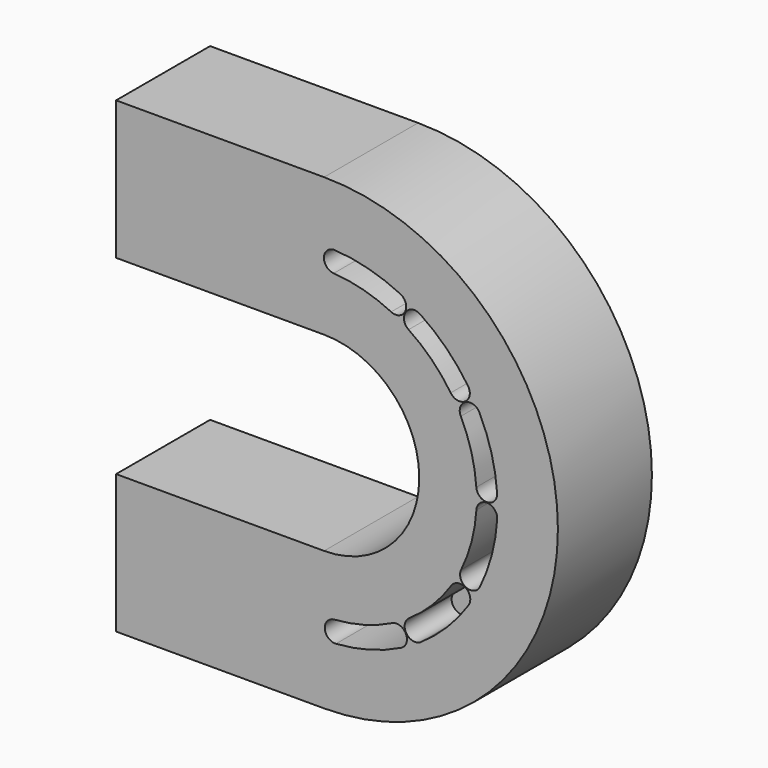
from build123d import *

# Parameters (mm, degrees)
F0_W     = 35.4
F0_H     = 23.6
F1_DEPTH = 20
F3_DEPTH = 10


with BuildPart() as f1:
    # F0 (on Front) → F1 (new body)
    with BuildSketch(Plane.XZ):
        with Locations((-17.7, 28)):
            Rectangle(F0_W, F0_H)
        with BuildLine():
            ThreePointArc((0, -39.8), (39.8, 0), (0, 39.8))
            Line((0, 39.8), (0, 16.2))
            ThreePointArc((0, 16.2), (16.2, 0), (0, -16.2))
            Line((0, -16.2), (0, -39.8))
        make_face()
        with Locations((-17.7, -28)):
            Rectangle(F0_W, F0_H)
    extrude(amount=F1_DEPTH)

    # F2 (on face) → F3 (cut)
    with BuildSketch(Plane.XZ.offset(20)):
        with BuildLine():
            ThreePointArc((12.98208, 26.520214), (7.568156, 28.540833), (1.864359, 29.468293))
            ThreePointArc((1.864359, 29.468293), (-0.019794, 27.808362), (1.640137, 25.924209))
            ThreePointArc((1.640137, 25.924209), (6.657951, 25.108293), (11.420755, 23.330688))
            ThreePointArc((11.420755, 23.330688), (13.79618, 24.144789), (12.98208, 26.520214))
        make_face()
        with BuildLine():
            ThreePointArc((14.382505, 21.630955), (18.320101, 18.415444), (21.556008, 14.494592))
            ThreePointArc((21.556008, 14.494592), (24.020237, 14.01191), (24.502918, 16.476139))
            ThreePointArc((24.502918, 16.476139), (20.824632, 20.933009), (16.348729, 24.588111))
            ThreePointArc((16.348729, 24.588111), (13.887039, 24.092645), (14.382505, 21.630955))
        make_face()
        with BuildLine():
            ThreePointArc((23.271092, 11.541705), (25.073395, 6.788192), (25.915346, 1.77468))
            ThreePointArc((25.915346, 1.77468), (27.80809, 0.124552), (29.458219, 2.017296))
            ThreePointArc((29.458219, 2.017296), (28.501164, 7.716202), (26.45247, 13.119565))
            ThreePointArc((26.45247, 13.119565), (24.072851, 13.921324), (23.271092, 11.541705))
        make_face()
        with BuildLine():
            ThreePointArc((25.924209, -1.640137), (25.108293, -6.657951), (23.330688, -11.420755))
            ThreePointArc((23.330688, -11.420755), (24.144789, -13.79618), (26.520214, -12.98208))
            ThreePointArc((26.520214, -12.98208), (28.540833, -7.568156), (29.468293, -1.864359))
            ThreePointArc((29.468293, -1.864359), (27.808362, 0.019794), (25.924209, -1.640137))
        make_face()
        with BuildLine():
            ThreePointArc((21.630955, -14.382505), (18.415444, -18.320101), (14.494592, -21.556008))
            ThreePointArc((14.494592, -21.556008), (14.01191, -24.020237), (16.476139, -24.502918))
            ThreePointArc((16.476139, -24.502918), (20.933009, -20.824632), (24.588111, -16.348729))
            ThreePointArc((24.588111, -16.348729), (24.092645, -13.887039), (21.630955, -14.382505))
        make_face()
        with BuildLine():
            ThreePointArc((11.541705, -23.271092), (6.788192, -25.073395), (1.77468, -25.915346))
            ThreePointArc((1.77468, -25.915346), (0.124552, -27.80809), (2.017296, -29.458219))
            ThreePointArc((2.017296, -29.458219), (7.716202, -28.501164), (13.119565, -26.45247))
            ThreePointArc((13.119565, -26.45247), (13.921324, -24.072851), (11.541705, -23.271092))
        make_face()
    extrude(amount=-F3_DEPTH, mode=Mode.SUBTRACT)


solid = f1.part
